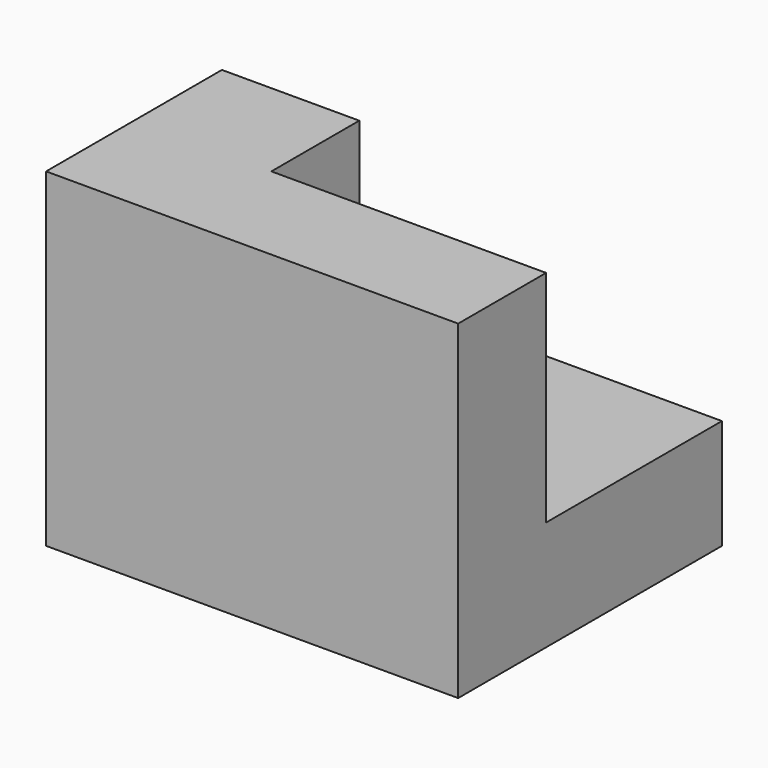
from build123d import *

# Parameters (mm, degrees)
F0_W     = 30
F0_H     = 24
F1_DEPTH = 24
F3_DEPTH = 16


with BuildPart() as f1:
    # F0 (on Top) → F1 (new body)
    with BuildSketch(Plane.XY):
        with Locations((15, 12)):
            Rectangle(F0_W, F0_H)
    extrude(amount=-F1_DEPTH)

    # F2 (on face) → F3 (cut)
    with BuildSketch(Plane.XY):
        Polygon((10, 8), (30, 8), (30, 24), (0, 24), (0, 16), (10, 16), align=None)
    extrude(amount=-F3_DEPTH, mode=Mode.SUBTRACT)


solid = f1.part
